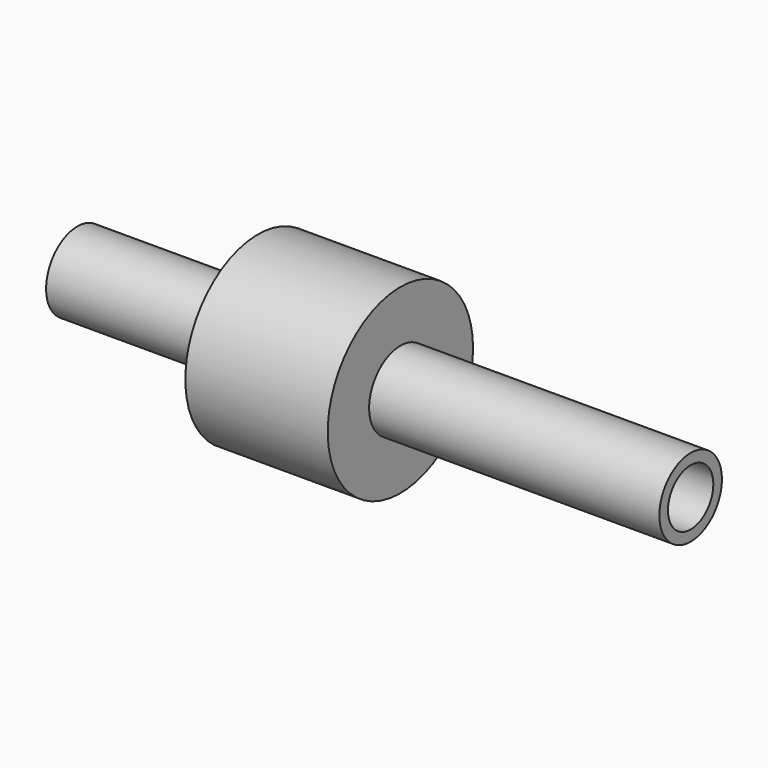
from build123d import *

# Parameters (mm, degrees)
F0_R     = 64.132843
F1_DEPTH = 100.584
F2_R     = 27.60981
F2_R_2   = 20.017869
F3_DEPTH = 204.978
F4_R     = 27.653728
F4_R_2   = 19.400153
F5_DEPTH = 127.508


with BuildPart() as f1:
    # F0 (on Right) → F1 (new body)
    with BuildSketch(Plane.YZ):
        Circle(F0_R)
    extrude(amount=F1_DEPTH)

    # F2 (on face) → F3 (join)
    with BuildSketch(Plane.YZ.offset(100.584)):
        Circle(F2_R)
        Circle(F2_R_2, mode=Mode.SUBTRACT)
    extrude(amount=F3_DEPTH)

    # F4 (on face) → F5 (join)
    with BuildSketch(Plane(origin=(0, 0, 0), x_dir=(0, -1, 0), z_dir=(-1, 0, 0))):
        Circle(F4_R)
        Circle(F4_R_2, mode=Mode.SUBTRACT)
    extrude(amount=F5_DEPTH)


solid = f1.part
